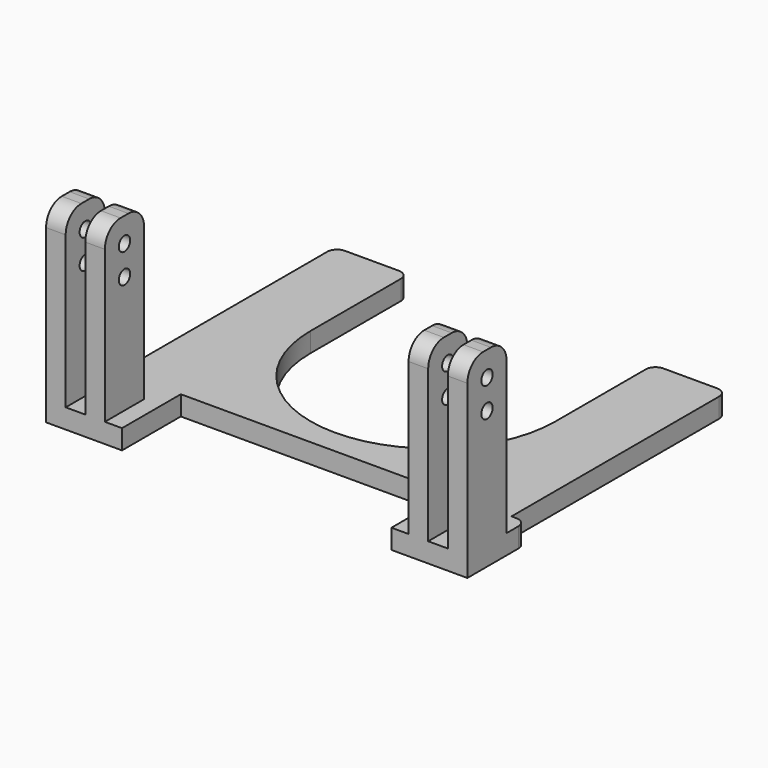
from build123d import *

# Parameters (mm, degrees)
PAD007_DEPTH  = 4
SKETCH023_W   = 4
SKETCH023_H   = 10
PAD008_DEPTH  = 35
SKETCH024_R   = 1.45
HOLE005_DEPTH = 86.001
FILLET004_R   = 4
FILLET005_R   = 2


with BuildPart() as part:
    # Sketch022 (on DatumPlane) → Pad007 (new body)
    with BuildSketch(Plane(origin=(-27.5, 0, -70), x_dir=(1, 0, 0), z_dir=(0, 0, 1))):
        with BuildLine():
            Line((2.5, 164.5), (-12.5, 164.5))
            Line((-12.5, 164.5), (-12.5, 109.5))
            Line((-12.5, 109.5), (-15.499998, 109.5))
            Line((-15.499998, 109.5), (-15.499998, 94.5))
            Line((-15.499998, 94.5), (2e-06, 94.5))
            Line((2e-06, 94.5), (2e-06, 109.499996))
            Line((2e-06, 109.499996), (55.000002, 109.5))
            Line((55.000002, 109.5), (55.000002, 94.5))
            Line((55.000002, 94.5), (70.500002, 94.5))
            Line((70.500002, 94.5), (70.500002, 109.5))
            Line((70.500002, 109.5), (67.500004, 109.5))
            Line((67.500004, 109.5), (67.500004, 164.5))
            Line((67.500004, 164.5), (52.500004, 164.5))
            Line((52.500004, 164.5), (52.5, 139.499996))
            ThreePointArc((2.5, 139.5), (27.499998, 114.5), (52.5, 139.499996))
            Line((2.5, 164.5), (2.5, 139.5))
        make_face()
    extrude(amount=PAD007_DEPTH)

    # Sketch023 (on Face18 of Pad007) → Pad008 (join)
    with BuildSketch(Plane(origin=(-27.5, 0, -66), x_dir=(1, 0, 0), z_dir=(0, 0, 1))):
        with Locations((-5.499998, 99.5)):
            Rectangle(SKETCH023_W, SKETCH023_H)
        with Locations((60.500002, 99.5)):
            Rectangle(SKETCH023_W, SKETCH023_H)
        with Locations((68.500002, 99.5)):
            Rectangle(SKETCH023_W, SKETCH023_H)
        with Locations((-13.499998, 99.5)):
            Rectangle(SKETCH023_W, SKETCH023_H)
    extrude(amount=PAD008_DEPTH)

    # Sketch024 (on Face32 of Pad008) → Hole005 (cut, through all)
    with BuildSketch(Plane(origin=(43.000002, 0, -70), x_dir=(0, 1, 0), z_dir=(1, 0, 0))):
        with Locations((99.5, 34)):
            Circle(SKETCH024_R)
        with Locations((99.5, 28)):
            Circle(SKETCH024_R)
    extrude(amount=-HOLE005_DEPTH, mode=Mode.SUBTRACT)

    # Fillet004
    fillet004_edges = [part.edges().sort_by_distance(p)[0] for p in [
        (-40.999998, 94.5, -31),
        (-40.999998, 104.5, -31),
        (-32.999998, 104.5, -31),
        (-32.999998, 94.5, -31),
        (33.000002, 94.5, -31),
        (33.000002, 104.5, -31),
        (41.000002, 104.5, -31),
        (41.000002, 94.5, -31),
    ]]
    fillet(fillet004_edges, radius=FILLET004_R)

    # Fillet005
    fillet005_edges = [part.edges().sort_by_distance(p)[0] for p in [
        (43.000002, 109.5, -68),
        (40.000004, 164.5, -68),
        (25.000004, 164.5, -68),
        (-25, 164.5, -68),
        (-40, 164.5, -68),
        (-42.999998, 109.5, -68),
    ]]
    fillet(fillet005_edges, radius=FILLET005_R)


with BuildPart() as part_1:
    # Body002 placement: moved
    add(part.part.moved(Location((0.099998, -1.370226, -11.596799))))


solid = part_1.part
